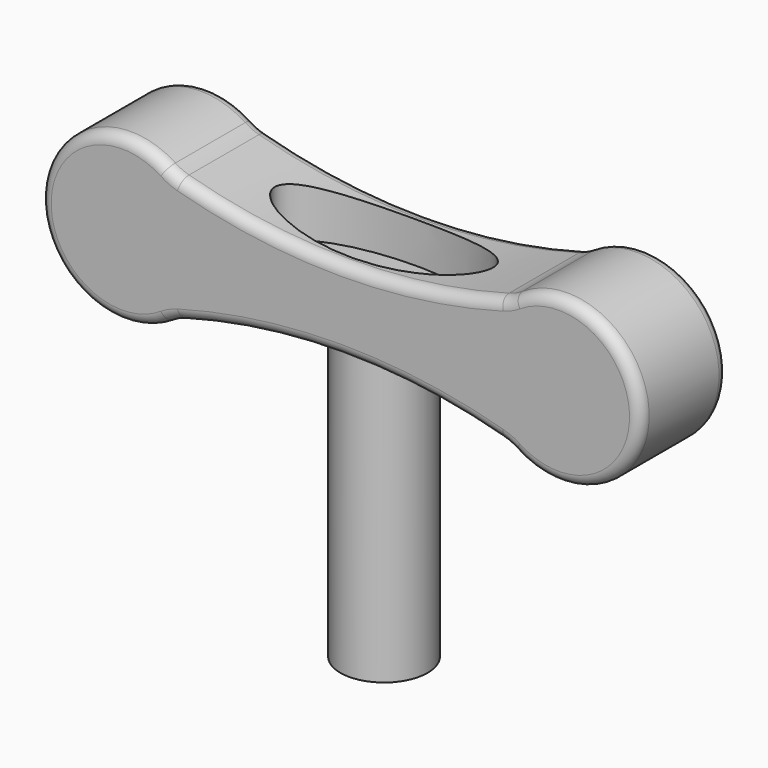
from build123d import *

# Parameters (mm, degrees)
F1_DEPTH = 12.7
F2_R     = 2.54
F3_R     = 10.16
F4_DEPTH = 76.2
F7_DEPTH = 19.05


with BuildPart() as f1:
    # F0 (on Front) → F1 (new body, symmetric)
    with BuildSketch(Plane.XZ):
        with BuildLine():
            ThreePointArc((-37.237423, 14.540576), (-38.883304, 15.134729), (-40.419203, 15.973151))
            ThreePointArc((-40.419203, 15.973151), (-69.85, 0), (-40.419203, -15.973151))
            ThreePointArc((-40.419203, -15.973151), (-38.883304, -15.134729), (-37.237423, -14.540576))
            ThreePointArc((-37.237423, -14.540576), (0, -9.486275), (37.237423, -14.540576))
            ThreePointArc((37.237423, -14.540576), (38.883304, -15.134729), (40.419203, -15.973151))
            ThreePointArc((40.419203, -15.973151), (69.85, 0), (40.419203, 15.973151))
            ThreePointArc((40.419203, 15.973151), (38.883304, 15.134729), (37.237423, 14.540576))
            ThreePointArc((37.237423, 14.540576), (0, 9.486275), (-37.237423, 14.540576))
        make_face()
    extrude(amount=F1_DEPTH, both=True)

    # F2
    f2_edges = [f1.edges().sort_by_distance(p)[0] for p in [
        (-69.85, -12.7, 0),
        (-69.85, 12.7, 0),
    ]]
    fillet(f2_edges, radius=F2_R)

    # F3 (on Top) → F4 (join)
    with BuildSketch(Plane.XY):
        Circle(F3_R)
    extrude(amount=-F4_DEPTH)

    # F6 (on offset) → F7 (cut)
    with BuildSketch(Plane.XY.offset(19.05)):
        with BuildLine():
            add(Edge.make_bspline(
                [(-25.4, 0), (-25.4, -16.497784), (12.7, -8.248892), (50.8, 0), (12.7, 8.248892), (-25.4, 16.497784), (-25.4, 0)],
                knots=[0, 0, 0, 2.094395, 2.094395, 4.18879, 4.18879, 6.283185, 6.283185, 6.283185], degree=2, weights=[1, 0.5, 1, 0.5, 1, 0.5, 1]))
        make_face()
    extrude(amount=-F7_DEPTH, mode=Mode.SUBTRACT)


solid = f1.part
